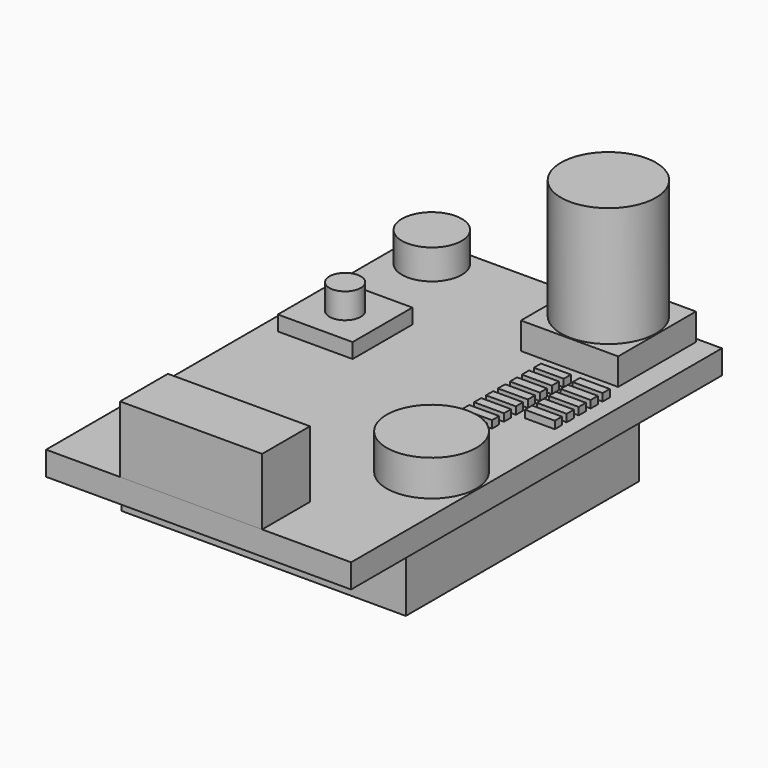
from build123d import *

# Parameters (mm, degrees)
F0_W      = 20.4
F0_H      = 31
F1_DEPTH  = 1.6
F2_W      = 6.5
F2_H      = 6.5
F3_DEPTH  = 1.8
F4_R      = 3.175
F5_DEPTH  = 8
F6_R      = 2
F7_DEPTH  = 2
F8_W      = 9.5
F8_H      = 4
F9_DEPTH  = 4.45
F10_W     = 5
F10_H     = 5
F11_DEPTH = 1
F12_R     = 1.05
F13_DEPTH = 1.7
F14_R     = 3
F15_DEPTH = 2.4
F16_W     = 19
F16_H     = 19.5
F17_DEPTH = 4
F18_W     = 2
F18_H     = 0.6
F19_DEPTH = 0.5


with BuildPart() as f1:
    # F0 (on Top) → F1 (new body)
    with BuildSketch(Plane.XY):
        Rectangle(F0_W, F0_H)
    extrude(amount=F1_DEPTH)


with BuildPart() as f3:
    # F2 (on face) → F3 (new body)
    with BuildSketch(Plane.XY.offset(1.6)):
        with Locations((5.45, 11.95)):
            Rectangle(F2_W, F2_H)
    extrude(amount=F3_DEPTH)

    # F4 (on face) → F5 (join)
    with BuildSketch(Plane.XY.offset(3.4)):
        with Locations((5.45, 11.95)):
            Circle(F4_R)
    extrude(amount=F5_DEPTH)


with BuildPart() as f7:
    # F6 (on face) → F7 (new body)
    with BuildSketch(Plane.XY.offset(1.6)):
        with Locations((-7.6, 13.5)):
            Circle(F6_R)
    extrude(amount=F7_DEPTH)


with BuildPart() as f9:
    # F8 (on face) → F9 (new body)
    with BuildSketch(Plane.XY.offset(1.6)):
        with Locations((-0.5, -13.5)):
            Rectangle(F8_W, F8_H)
    extrude(amount=F9_DEPTH)


with BuildPart() as f11:
    # F10 (on face) → F11 (new body)
    with BuildSketch(Plane.XY.offset(1.6)):
        with Locations((-6.6, 5)):
            Rectangle(F10_W, F10_H)
    extrude(amount=F11_DEPTH)

    # F12 (on face) → F13 (join)
    with BuildSketch(Plane.XY.offset(2.6)):
        with Locations((-6.6, 5)):
            Circle(F12_R)
    extrude(amount=F13_DEPTH)


with BuildPart() as f15:
    # F14 (on face) → F15 (new body)
    with BuildSketch(Plane.XY.offset(1.6)):
        with Locations((7.1, -4.9)):
            Circle(F14_R)
    extrude(amount=F15_DEPTH)


with BuildPart() as f17:
    # F16 (on face) → F17 (new body)
    with BuildSketch(Plane(origin=(0, 0, 0), x_dir=(1, 0, 0), z_dir=(0, 0, -1))):
        with Locations((0, 0.3)):
            Rectangle(F16_W, F16_H)
    extrude(amount=F17_DEPTH)


with BuildPart() as f19:
    # F18 (on face) → F19 (new body)
    with BuildSketch(Plane.XY.offset(1.6)):
        with Locations((8.1, 7.2)):
            Rectangle(F18_W, F18_H)
        with Locations((8.1, 6.2)):
            Rectangle(F18_W, F18_H)
        with Locations((8.1, 5.2)):
            Rectangle(F18_W, F18_H)
        with Locations((8.1, 4.2)):
            Rectangle(F18_W, F18_H)
        with Locations((8.1, 3.2)):
            Rectangle(F18_W, F18_H)
        with Locations((5.5, 7.2)):
            Rectangle(F18_W, F18_H)
        with Locations((5.5, 6.2)):
            Rectangle(F18_W, F18_H)
        with Locations((5.5, 5.2)):
            Rectangle(F18_W, F18_H)
        with Locations((5.5, 4.2)):
            Rectangle(F18_W, F18_H)
        with Locations((5.5, 3.2)):
            Rectangle(F18_W, F18_H)
        with Locations((5.5, 2.2)):
            Rectangle(F18_W, F18_H)
        with Locations((5.5, 1.2)):
            Rectangle(F18_W, F18_H)
        with Locations((5.5, 0.2)):
            Rectangle(F18_W, F18_H)
    extrude(amount=F19_DEPTH)


solid = Compound([f1.part, f3.part, f7.part, f9.part, f11.part, f15.part, f17.part, f19.part])
